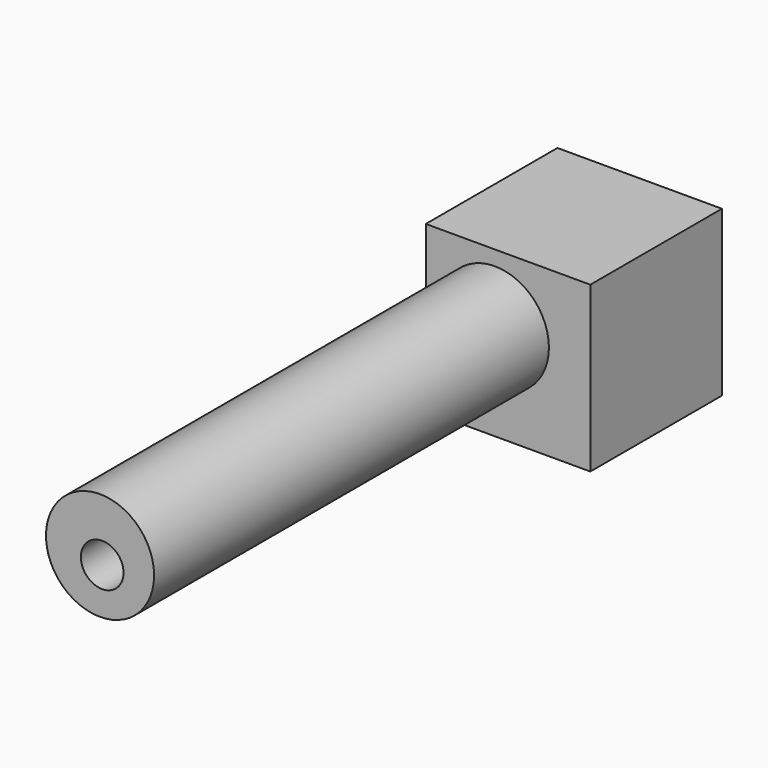
from build123d import *

# Parameters (mm, degrees)
F0_W     = 50
F0_H     = 50
F1_DEPTH = 50
F3_R     = 16.4282141223
F4_DEPTH = 150
F5_R     = 6.4806520978
F6_DEPTH = 100


with BuildPart() as f1:
    # F0 (on Top) → F1 (new body)
    with BuildSketch(Plane.XY):
        with Locations((25, 25)):
            Rectangle(F0_W, F0_H)
    extrude(amount=F1_DEPTH)

    # F3 (on face) → F4 (join)
    with BuildSketch(Plane.XZ):
        with Locations((20.9893193096, 29.0806218982)):
            Circle(F3_R)
    extrude(amount=F4_DEPTH)

    # F5 (on face) → F6 (cut)
    with BuildSketch(Plane.XZ.offset(150)):
        with Locations((21.6495357454, 26.772018522)):
            Circle(F5_R)
    extrude(amount=-F6_DEPTH, mode=Mode.SUBTRACT)


solid = f1.part
